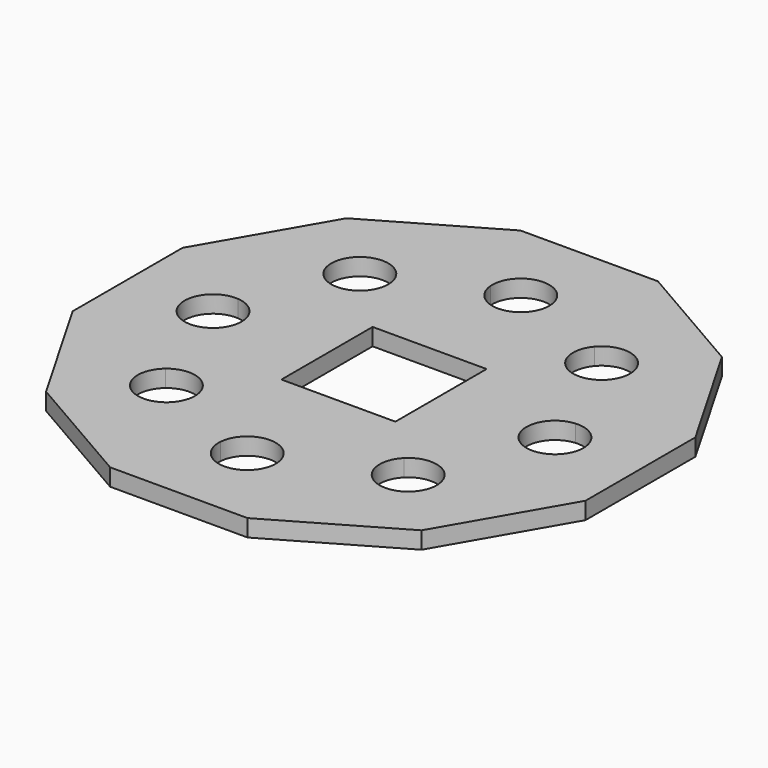
from build123d import *

# Parameters (mm, degrees)
F1_DEPTH = 6


with BuildPart() as f1:
    # F0 (on Top) → F1 (new body)
    with BuildSketch(Plane.XY):
        Polygon((24.115427, -90), (65.884573, -65.884573), (90, -24.115427), (90, 24.115427), (65.884573, 65.884573), (24.115427, 90), (-24.115427, 90), (-65.884573, 65.884573), (-90, 24.115427), (-90, -24.115427), (-65.884573, -65.884573), (-24.115427, -90), align=None)
        with BuildLine():
            ThreePointArc((48.883624, 34.790679), (55.432772, 22.961006), (59.166667, 9.965217))
            ThreePointArc((59.166667, 9.965217), (66.770032, 7.359801), (70, 0))
            ThreePointArc((70, 0), (66.770032, -7.359801), (59.166667, -9.965217))
            ThreePointArc((59.166667, -9.965217), (55.432772, -22.961006), (48.883624, -34.790679))
            ThreePointArc((48.883624, -34.790679), (51.497575, -38.217617), (52.426407, -42.426407))
            ThreePointArc((52.426407, -42.426407), (45.864627, -51.816755), (34.790679, -48.883624))
            ThreePointArc((34.790679, -48.883624), (22.961006, -55.432772), (9.965217, -59.166667))
            ThreePointArc((9.965217, -59.166667), (9.991301, -59.582971), (10, -60))
            ThreePointArc((10, -60), (-0.417029, -69.991301), (-9.965217, -59.166667))
            ThreePointArc((-9.965217, -59.166667), (-22.961006, -55.432772), (-34.790679, -48.883624))
            ThreePointArc((-34.790679, -48.883624), (-49.497475, -49.497475), (-48.883624, -34.790679))
            ThreePointArc((-48.883624, -34.790679), (-55.432772, -22.961006), (-59.166667, -9.965217))
            ThreePointArc((-59.166667, -9.965217), (-70, 0), (-59.166667, 9.965217))
            ThreePointArc((-59.166667, 9.965217), (-55.432772, 22.961006), (-48.883624, 34.790679))
            ThreePointArc((-48.883624, 34.790679), (-49.497475, 49.497475), (-34.790679, 48.883624))
            ThreePointArc((-34.790679, 48.883624), (-22.961006, 55.432772), (-9.965217, 59.166667))
            ThreePointArc((-9.965217, 59.166667), (-0.417029, 69.991301), (10, 60))
            ThreePointArc((10, 60), (9.991301, 59.582971), (9.965217, 59.166667))
            ThreePointArc((9.965217, 59.166667), (22.961006, 55.432772), (34.790679, 48.883624))
            ThreePointArc((34.790679, 48.883624), (45.864627, 51.816755), (52.426407, 42.426407))
            ThreePointArc((52.426407, 42.426407), (51.497575, 38.217617), (48.883624, 34.790679))
        make_face(mode=Mode.SUBTRACT)
        with BuildLine():
            Line((-20, -20), (-20, 20))
            Line((-20, 20), (-35.355339, 35.355339))
            ThreePointArc((-35.355339, 35.355339), (-42.009377, 32.435106), (-48.883624, 34.790679))
            ThreePointArc((-48.883624, 34.790679), (-55.432772, 22.961006), (-59.166667, 9.965217))
            ThreePointArc((-59.166667, 9.965217), (-52.640199, 6.770032), (-50, 0))
            ThreePointArc((-50, 0), (-52.640199, -6.770032), (-59.166667, -9.965217))
            ThreePointArc((-59.166667, -9.965217), (-55.432772, -22.961006), (-48.883624, -34.790679))
            ThreePointArc((-48.883624, -34.790679), (-42.009377, -32.435106), (-35.355339, -35.355339))
            Line((-35.355339, -35.355339), (-20, -20))
        make_face()
        with BuildLine():
            Line((20, 20), (35.355339, 35.355339))
            ThreePointArc((35.355339, 35.355339), (32.435106, 42.009377), (34.790679, 48.883624))
            ThreePointArc((34.790679, 48.883624), (22.961006, 55.432772), (9.965217, 59.166667))
            ThreePointArc((9.965217, 59.166667), (0, 50), (-9.965217, 59.166667))
            ThreePointArc((-9.965217, 59.166667), (-22.961006, 55.432772), (-34.790679, 48.883624))
            ThreePointArc((-34.790679, 48.883624), (-33.036059, 45.864627), (-32.426407, 42.426407))
            ThreePointArc((-32.426407, 42.426407), (-33.187612, 38.599573), (-35.355339, 35.355339))
            Line((-35.355339, 35.355339), (-20, 20))
            Line((-20, 20), (20, 20))
        make_face()
        with BuildLine():
            ThreePointArc((59.166667, -9.965217), (50, 0), (59.166667, 9.965217))
            ThreePointArc((59.166667, 9.965217), (55.432772, 22.961006), (48.883624, 34.790679))
            ThreePointArc((48.883624, 34.790679), (42.009377, 32.435106), (35.355339, 35.355339))
            Line((35.355339, 35.355339), (20, 20))
            Line((20, 20), (20, -20))
            Line((20, -20), (35.355339, -35.355339))
            ThreePointArc((35.355339, -35.355339), (42.009377, -32.435106), (48.883624, -34.790679))
            ThreePointArc((48.883624, -34.790679), (55.432772, -22.961006), (59.166667, -9.965217))
        make_face()
        with BuildLine():
            ThreePointArc((34.790679, -48.883624), (32.435106, -42.009377), (35.355339, -35.355339))
            Line((35.355339, -35.355339), (20, -20))
            Line((20, -20), (-20, -20))
            Line((-20, -20), (-35.355339, -35.355339))
            ThreePointArc((-35.355339, -35.355339), (-33.187612, -38.599573), (-32.426407, -42.426407))
            ThreePointArc((-32.426407, -42.426407), (-33.036059, -45.864627), (-34.790679, -48.883624))
            ThreePointArc((-34.790679, -48.883624), (-22.961006, -55.432772), (-9.965217, -59.166667))
            ThreePointArc((-9.965217, -59.166667), (0, -50), (9.965217, -59.166667))
            ThreePointArc((9.965217, -59.166667), (22.961006, -55.432772), (34.790679, -48.883624))
        make_face()
    extrude(amount=F1_DEPTH)


solid = f1.part
